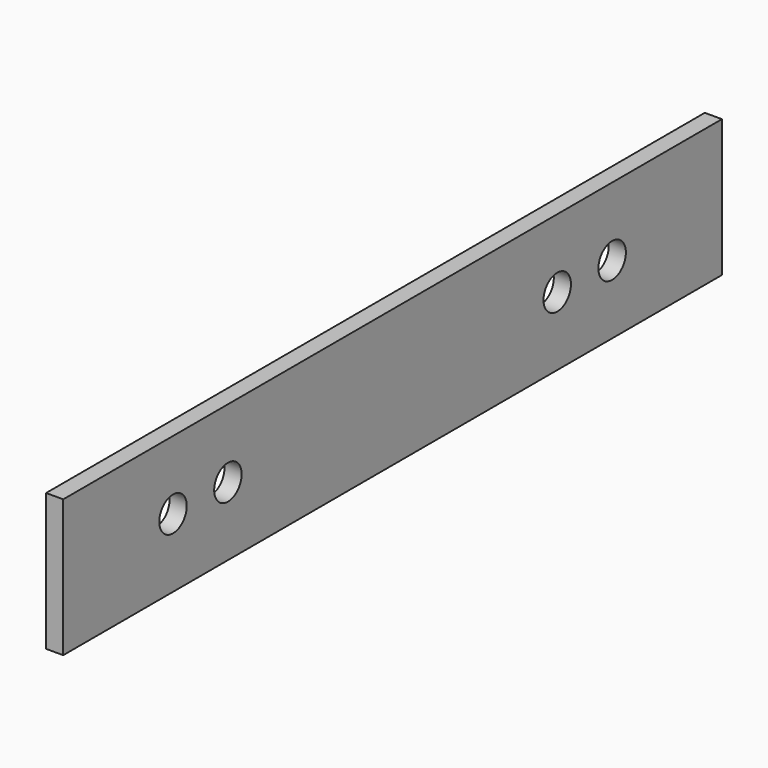
from build123d import *

# Parameters (mm, degrees)
F0_W     = 152.4
F0_H     = 25.4
F0_R     = 3.175
F1_DEPTH = 3.175


with BuildPart() as f1:
    # F0 (on Right) → F1 (new body)
    with BuildSketch(Plane.YZ):
        with Locations((3.159953, -10.551075)):
            Rectangle(F0_W, F0_H)
        with Locations((-47.640047, -10.551075)):
            Circle(F0_R, mode=Mode.SUBTRACT)
        with Locations((-34.940047, -10.551075)):
            Circle(F0_R, mode=Mode.SUBTRACT)
        with Locations((41.259953, -10.551075)):
            Circle(F0_R, mode=Mode.SUBTRACT)
        with Locations((53.959953, -10.551075)):
            Circle(F0_R, mode=Mode.SUBTRACT)
    extrude(amount=F1_DEPTH)


solid = f1.part
